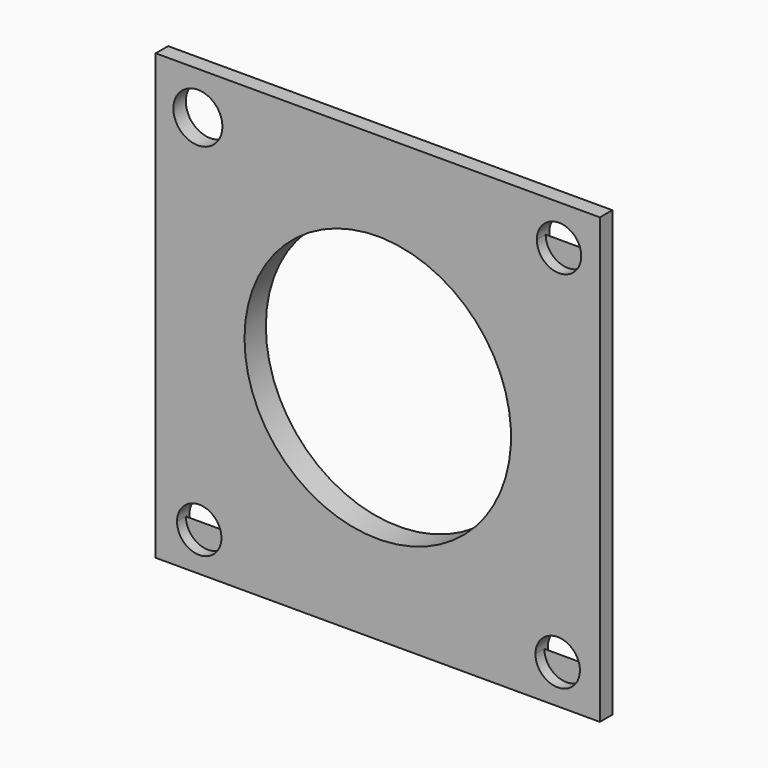
from build123d import *

# Parameters (mm, degrees)
F0_W        = 100
F0_H        = 100
F0_R        = 5
F0_R_2      = 5.515434
F0_R_3      = 32
F1_DEPTH    = 2.5
F1_FACE_W   = 100
F1_FACE_H   = 100
F1_FACE_R   = 5
F1_FACE_R_2 = 5.515434
F2_DEPTH    = 3.5
F3_R        = 30
F4_DEPTH    = 25


with BuildPart() as f1:
    # F0 (on Front) → F1 (new body)
    with BuildSketch(Plane.XZ):
        Rectangle(F0_W, F0_H)
        with Locations((-40.200002, -41.250005)):
            Circle(F0_R, mode=Mode.SUBTRACT)
        with Locations((40.5, -41.250005)):
            Circle(F0_R, mode=Mode.SUBTRACT)
        with Locations((-40.5, 40.350001)):
            Circle(F0_R_2, mode=Mode.SUBTRACT)
        Circle(F0_R_3, mode=Mode.SUBTRACT)
        with Locations((40.799998, 40.950008)):
            Circle(F0_R, mode=Mode.SUBTRACT)
        Circle(F0_R_3)
    extrude(amount=F1_DEPTH)

    # F0 (on Front) + F1_face (on face) → F2 (join)
    with BuildSketch(Plane.XZ):
        Circle(F0_R_3)
    with BuildSketch(Plane(origin=(0.06645, -2.5, -0.061312), x_dir=(1, 0, 0), z_dir=(0, -1, 0))):
        with Locations((-0.06645, 0.061312)):
            Rectangle(F1_FACE_W, F1_FACE_H)
        with Locations((-40.266452, -41.188694)):
            Circle(F1_FACE_R, mode=Mode.SUBTRACT)
        with Locations((40.43355, -41.188694)):
            Circle(F1_FACE_R, mode=Mode.SUBTRACT)
        with Locations((-40.56645, 40.411313)):
            Circle(F1_FACE_R_2, mode=Mode.SUBTRACT)
        with Locations((40.733548, 41.011319)):
            Circle(F1_FACE_R, mode=Mode.SUBTRACT)
    extrude(amount=-F2_DEPTH)

    # F3 (on face) → F4 (cut)
    with BuildSketch(Plane(origin=(0, 3.5, 0), x_dir=(-1, 0, 0), z_dir=(0, 1, 0))):
        Circle(F3_R)
    extrude(amount=-F4_DEPTH, mode=Mode.SUBTRACT)


solid = f1.part
